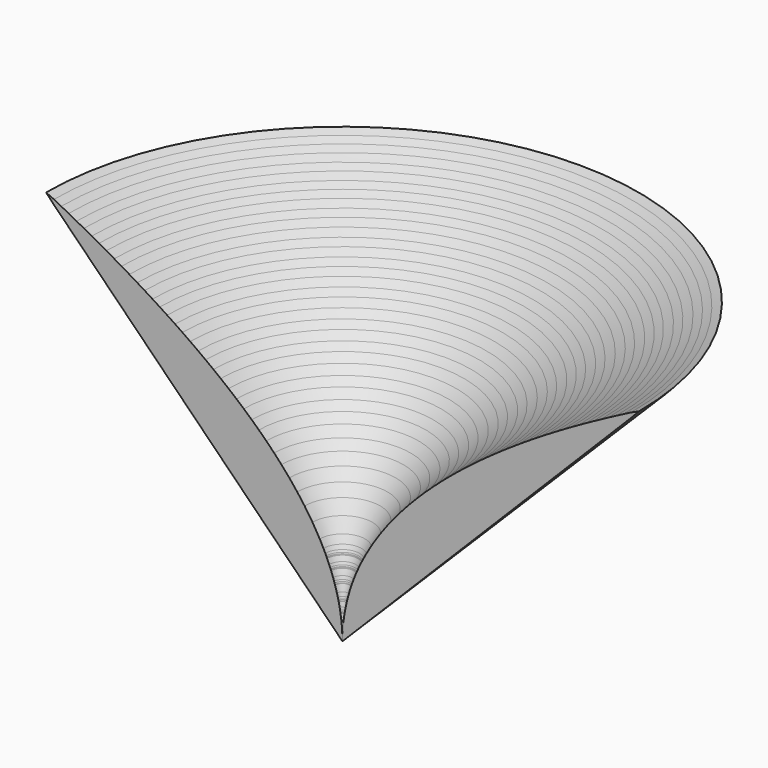
from build123d import *

# Parameters (mm, degrees)
F1_ANGLE = 180


with BuildPart() as f1:
    # F0 (on Front) → F1 (revolve)
    with BuildSketch(Plane.XZ):
        Polygon((0.055236, 1.754377), (0.031233, 1.241271), (0.002557, -0.000916), (0.200296, 0.195604), (0.392421, 0.391032), (0.777841, 0.778128), (1.549696, 1.554428), (3.221753, 3.239184), (4.78304, 4.81119), (6.313619, 6.352183), (7.974525, 8.022512), (9.52461, 9.583342), (11.204058, 11.274322), (12.852595, 12.933475), (14.390793, 14.482748), (16.059065, 16.160901), (17.615806, 17.72958), (19.141889, 19.266051), (20.798019, 20.933053), (22.343609, 22.48893), (24.018993, 24.175363), (25.663008, 25.829563), (27.196711, 27.373883), (28.860208, 29.049166), (30.412199, 30.61124), (32.095228, 32.305928), (33.746838, 33.967977), (35.287653, 35.518901), (36.957601, 37.200356), (38.518152, 38.770711), (40.047079, 40.310459), (41.705826, 41.980788), (43.254261, 43.539561), (44.931804, 45.22762), (46.578435, 46.886798), (48.114729, 48.432744), (49.781096, 50.109271), (51.336897, 51.676299), (52.861074, 53.211119), (54.5153, 54.87647), (56.058985, 56.430696), (57.732947, 58.115478), (59.295174, 59.687459), (60.826718, 61.230102), (62.488563, 62.999796), (60.826718, 62.253443), (59.295174, 61.464366), (57.732947, 60.64923), (56.058985, 59.763481), (54.5153, 58.933891), (52.861074, 58.033258), (51.336897, 57.190867), (49.781096, 56.317895), (48.114729, 55.367274), (46.578435, 54.474896), (44.931804, 53.503194), (43.254261, 52.494737), (41.705826, 51.547394), (40.047079, 50.511251), (38.518152, 49.536653), (36.957601, 48.523219), (35.287653, 47.414382), (33.746838, 46.367064), (32.095228, 45.21812), (30.412199, 44.017132), (28.860208, 42.877713), (27.196711, 41.623842), (25.663008, 40.43276), (24.018993, 39.116075), (22.343609, 37.726695), (20.798019, 36.398453), (19.141889, 34.918598), (17.615806, 33.49823), (16.059065, 31.98284), (14.390793, 30.275757), (12.852595, 28.611651), (11.204058, 26.712442), (9.52461, 24.627331), (7.974525, 22.533964), (6.313619, 20.048955), (4.78304, 17.447411), (4.002879, 15.95765), (3.611719, 15.159049), (3.416749, 14.742616), (3.319263, 14.529434), (3.270978, 14.42283), (3.245781, 14.368296), (3.221753, 14.313356), (2.803745, 13.351559), (2.594728, 12.843001), (2.489623, 12.580238), (2.437807, 12.447624), (2.411645, 12.379857), (2.385712, 12.313766), (1.967704, 11.179301), (1.758687, 10.566195), (1.653836, 10.246435), (1.575833, 9.999369), (1.549696, 9.915498), (1.164251, 8.587256), (0.97116, 7.840318), (0.874386, 7.436687), (0.826126, 7.228458), (0.777841, 7.01238), (0.585715, 6.073316), (0.488941, 5.543676), (0.440681, 5.259856), (0.416653, 5.111114), (0.392421, 4.959501), (0.295876, 4.294758), (0.247591, 3.920463), (0.224299, 3.720083), (0.200296, 3.507332), (0.151782, 3.037585), (0.127753, 2.772764), (0.103496, 2.480664), (0.079493, 2.148508), align=None)
    revolve(axis=Axis((0, 0, 35.7251), (0, 0, 1)), revolution_arc=F1_ANGLE)


solid = f1.part
